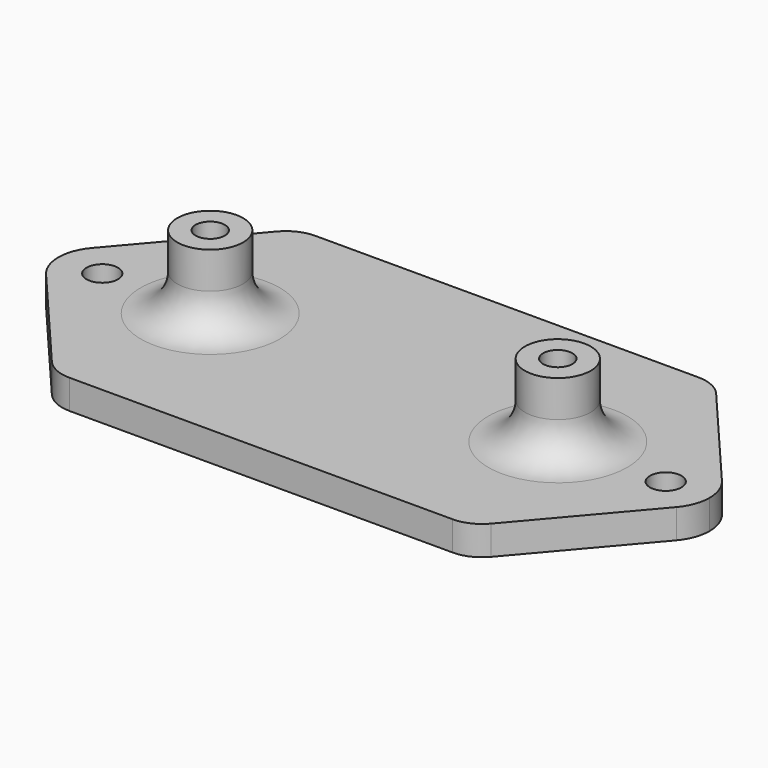
from build123d import *

# Parameters (mm, degrees)
F0_W     = 57
F0_H     = 42
F0_R     = 4.5
F0_R_2   = 2.15
F0_R_3   = 2
F1_DEPTH = 4
F2_DEPTH = 14
F3_R     = 5


with BuildPart() as f1:
    # F0 (on Top) → F1 (new body)
    with BuildSketch(Plane.XY):
        Rectangle(F0_W, F0_H)
        with Locations((-23.75, 0)):
            Circle(F0_R, mode=Mode.SUBTRACT)
        with Locations((23.75, 0)):
            Circle(F0_R, mode=Mode.SUBTRACT)
        with BuildLine():
            Line((-43.068388, -3.889709), (-28.5, -21))
            Line((-28.5, -21), (-28.5, 21))
            Line((-28.5, 21), (-43.068388, 3.889709))
            ThreePointArc((-43.068388, 3.889709), (-36.427601, 5.630734), (-32.5, 0))
            ThreePointArc((-32.5, 0), (-36.427601, -5.630734), (-43.068388, -3.889709))
        make_face()
        with BuildLine():
            Line((28.5, 21), (28.5, -21))
            Line((28.5, -21), (43.068388, -3.889709))
            ThreePointArc((43.068388, -3.889709), (32.5, 0), (43.068388, 3.889709))
            Line((43.068388, 3.889709), (28.5, 21))
        make_face()
        with BuildLine():
            ThreePointArc((-43.068388, 3.889709), (-44.5, 0), (-43.068388, -3.889709))
            ThreePointArc((-43.068388, -3.889709), (-36.427601, -5.630734), (-32.5, 0))
            ThreePointArc((-32.5, 0), (-36.427601, 5.630734), (-43.068388, 3.889709))
        make_face()
        with Locations((-38.5, 0)):
            Circle(F0_R_2, mode=Mode.SUBTRACT)
        with BuildLine():
            ThreePointArc((43.068388, 3.889709), (32.5, 0), (43.068388, -3.889709))
            ThreePointArc((43.068388, -3.889709), (44.130734, -2.072399), (44.5, 0))
            ThreePointArc((44.5, 0), (44.130734, 2.072399), (43.068388, 3.889709))
        make_face()
        with Locations((38.5, 0)):
            Circle(F0_R_2, mode=Mode.SUBTRACT)
        with Locations((-23.75, 0)):
            Circle(F0_R)
        with Locations((-23.75, 0)):
            Circle(F0_R_3, mode=Mode.SUBTRACT)
        with Locations((23.75, 0)):
            Circle(F0_R)
        with Locations((23.75, 0)):
            Circle(F0_R_3, mode=Mode.SUBTRACT)
    extrude(amount=F1_DEPTH)

    # F0 (on Top) → F2 (join)
    with BuildSketch(Plane.XY):
        with Locations((-23.75, 0)):
            Circle(F0_R)
        with Locations((-23.75, 0)):
            Circle(F0_R_3, mode=Mode.SUBTRACT)
        with Locations((23.75, 0)):
            Circle(F0_R)
        with Locations((23.75, 0)):
            Circle(F0_R_3, mode=Mode.SUBTRACT)
    extrude(amount=F2_DEPTH)

    # F3
    f3_edges = [f1.edges().sort_by_distance(p)[0] for p in [
        (-28.5, 21, 2),
        (-28.5, -21, 2),
        (28.5, -21, 2),
        (28.5, 21, 2),
        (-28.25, 0, 4),
        (19.25, 0, 4),
    ]]
    fillet(f3_edges, radius=F3_R)


solid = f1.part
